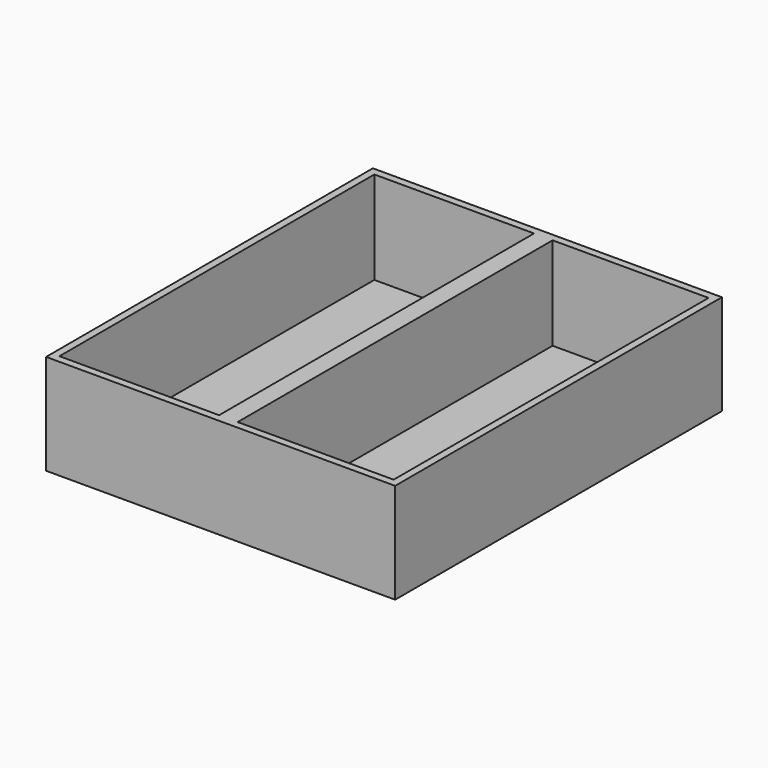
from build123d import *

# Parameters (mm, degrees)
SKETCH_W      = 47
SKETCH_H      = 55
PAD_DEPTH     = 13.5
SKETCH001_W   = 21.5
SKETCH001_H   = 53
SKETCH001_W_2 = 21
POCKET_DEPTH  = 12.5


with BuildPart() as part:
    # Sketch → Pad (new body)
    with BuildSketch(Plane.XY):
        Rectangle(SKETCH_W, SKETCH_H)
    extrude(amount=PAD_DEPTH)

    # Sketch001 (on Face6 of Pad) → Pocket (cut)
    with BuildSketch(Plane.XY.offset(13.5)):
        with Locations((-11.75, 0)):
            Rectangle(SKETCH001_W, SKETCH001_H)
        with Locations((12, 0)):
            Rectangle(SKETCH001_W_2, SKETCH001_H)
    extrude(amount=-POCKET_DEPTH, mode=Mode.SUBTRACT)


solid = part.part
